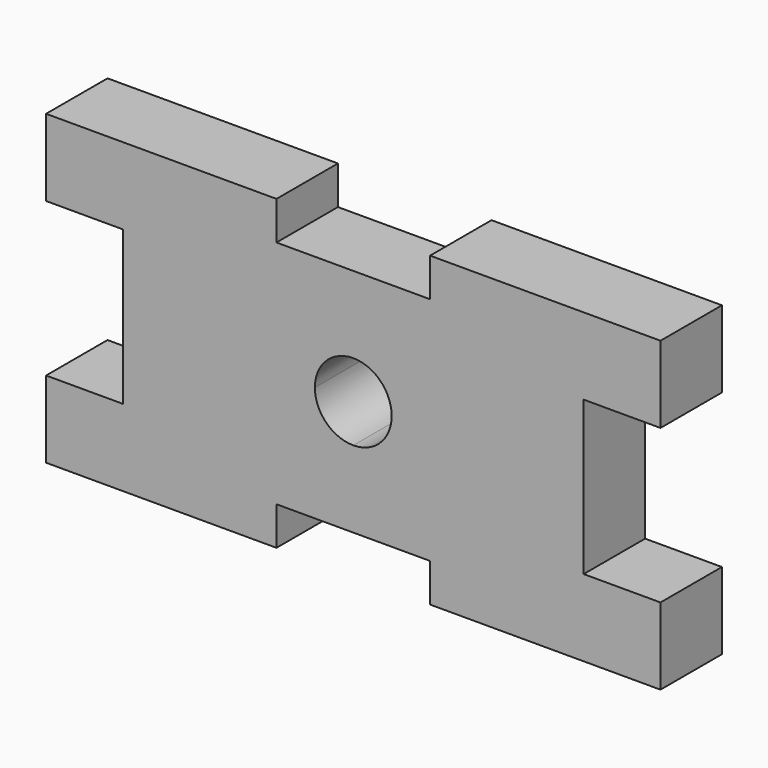
from build123d import *

# Parameters (mm, degrees)
F1_DEPTH = 10


with BuildPart() as f1:
    # F0 (on Front) → F1 (new body)
    with BuildSketch(Plane.XZ):
        Polygon((30, -10), (30, 0), (30, 10), (40, 10), (40, 20), (10, 20), (10, 15), (0, 15), (-10, 15), (-10, 20), (-40, 20), (-40, 10), (-30, 10), (-30, 0), (-30, -10), (-40, -10), (-40, -20), (-10, -20), (-10, -15), (0, -15), (10, -15), (10, -20), (40, -20), (40, -10), align=None)
        with BuildLine():
            ThreePointArc((0, 5), (3.535534, 3.535534), (5, 0))
            ThreePointArc((5, 0), (3.535534, -3.535534), (0, -5))
            ThreePointArc((0, -5), (-3.535534, -3.535534), (-5, 0))
            ThreePointArc((-5, 0), (-3.535534, 3.535534), (0, 5))
        make_face(mode=Mode.SUBTRACT)
    extrude(amount=F1_DEPTH)


solid = f1.part
